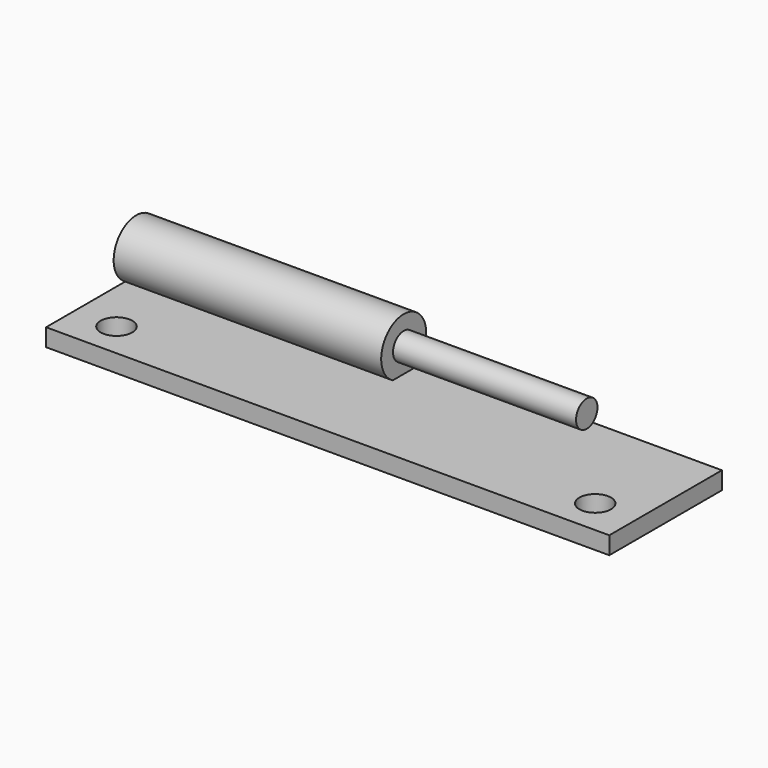
from build123d import *

# Parameters (mm, degrees)
BOX_W             = 80
BOX_H             = 20
BOX_DEPTH         = 2.5
CYLINDER_R        = 4
CYLINDER_DEPTH    = 38
CYLINDER001_R     = 1.9
CYLINDER001_DEPTH = 30
CYLINDER002_R     = 2.25
CYLINDER002_DEPTH = 2.5
CYLINDER003_R     = 2.25
CYLINDER003_DEPTH = 2.5


with BuildPart() as part:
    # Box → Box (join)
    with BuildSketch(Plane.XY):
        with Locations((40, 10)):
            Rectangle(BOX_W, BOX_H)
    extrude(amount=BOX_DEPTH)

    # Cylinder → Cylinder (join)
    with BuildSketch(Plane(origin=(38, 16, 6), x_dir=(0, -1, 0), z_dir=(-1, 0, 0))):
        Circle(CYLINDER_R)
    extrude(amount=CYLINDER_DEPTH)

    # Cylinder001 → Cylinder001 (join)
    with BuildSketch(Plane(origin=(64, 16, 6), x_dir=(0, -1, 0), z_dir=(-1, 0, 0))):
        Circle(CYLINDER001_R)
    extrude(amount=CYLINDER001_DEPTH)

    # Cylinder002 → Cylinder002 (cut)
    with BuildSketch(Plane(origin=(74, 5, 0), x_dir=(0, 1, 0), z_dir=(0, 0, 1))):
        Circle(CYLINDER002_R)
    extrude(amount=CYLINDER002_DEPTH, mode=Mode.SUBTRACT)

    # Cylinder003 → Cylinder003 (cut)
    with BuildSketch(Plane(origin=(6, 5, 0), x_dir=(0, 1, 0), z_dir=(0, 0, 1))):
        Circle(CYLINDER003_R)
    extrude(amount=CYLINDER003_DEPTH, mode=Mode.SUBTRACT)


solid = part.part
